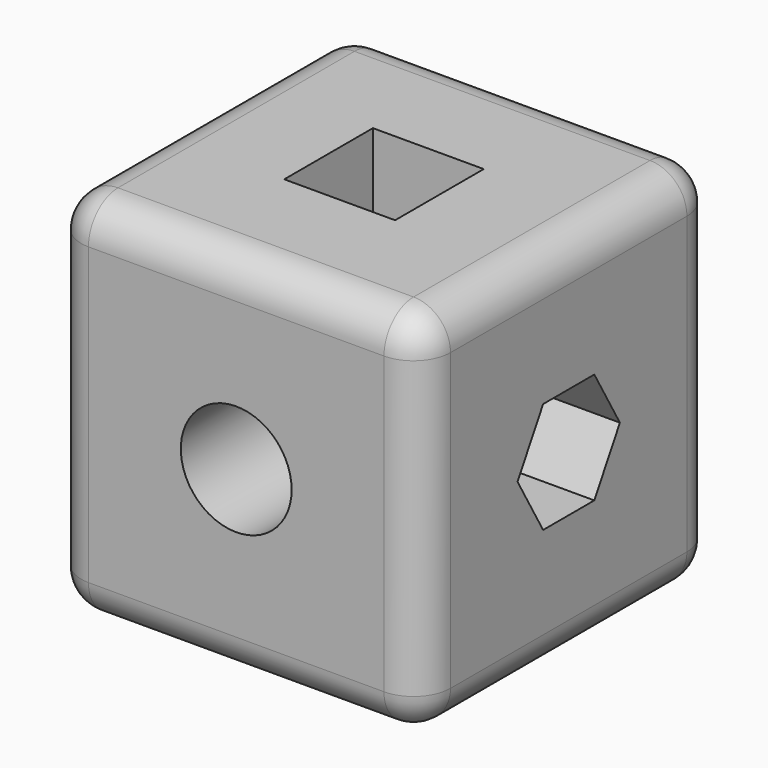
from build123d import *

# Parameters (mm, degrees)
SKETCH_W        = 50
SKETCH_H        = 50
PAD_DEPTH       = 50
SKETCH001_R     = 7.5
HOLE_DEPTH      = 50.001
SKETCH002_W     = 15
SKETCH002_H     = 15
POCKET_DEPTH    = 50.001
POCKET001_DEPTH = 50.001
FILLET_R        = 5


with BuildPart() as part:
    # Sketch → Pad (new body)
    with BuildSketch(Plane.XY):
        Rectangle(SKETCH_W, SKETCH_H)
    extrude(amount=PAD_DEPTH)

    # Sketch001 (on Face3 of Pad) → Hole (cut, through all)
    with BuildSketch(Plane.XZ.offset(25)):
        with Locations((0, 25)):
            Circle(SKETCH001_R)
    extrude(amount=-HOLE_DEPTH, mode=Mode.SUBTRACT)

    # Sketch002 (on Face4 of Hole) → Pocket (cut, through all)
    with BuildSketch(Plane.XY.offset(50)):
        Rectangle(SKETCH002_W, SKETCH002_H)
    extrude(amount=-POCKET_DEPTH, mode=Mode.SUBTRACT)

    # Sketch003 (on Face5 of Pocket) → Pocket001 (cut, through all)
    with BuildSketch(Plane.YZ.offset(25)):
        Polygon((4.330127, 17.5), (8.660254, 25), (4.330127, 32.5), (-4.330127, 32.5), (-8.660254, 25), (-4.330127, 17.5), align=None)
    extrude(amount=-POCKET001_DEPTH, mode=Mode.SUBTRACT)

    # Fillet
    fillet_edges = [part.edges().sort_by_distance(p)[0] for p in [
        (0, -25, 50),
        (-25, 0, 50),
        (0, 25, 50),
        (25, 0, 50),
        (25, 25, 25),
        (25, -25, 25),
        (-25, -25, 25),
        (0, -25, 0),
        (25, 0, 0),
        (-25, 0, 0),
        (0, 25, 0),
        (-25, 25, 25),
    ]]
    fillet(fillet_edges, radius=FILLET_R)


solid = part.part
